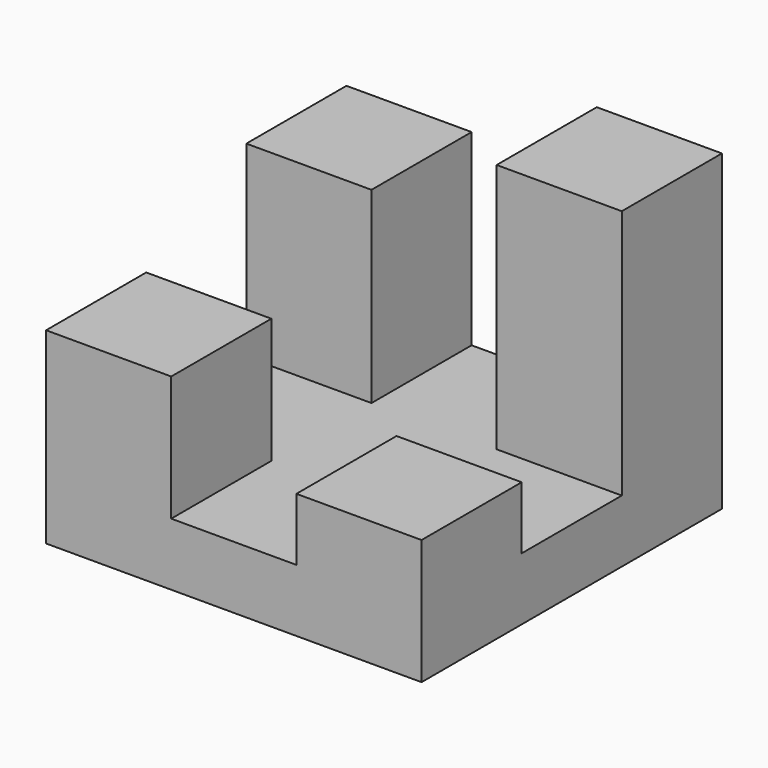
from build123d import *

# Parameters (mm, degrees)
F0_W     = 76.2
F0_H     = 76.2
F1_DEPTH = 12.7
F2_W     = 25.4
F2_H     = 25.4
F3_DEPTH = 38.1
F4_DEPTH = 25.4
F5_DEPTH = 12.7
F6_DEPTH = 50.8


with BuildPart() as f1:
    # F0 (on Top) → F1 (new body)
    with BuildSketch(Plane.XY):
        with Locations((-20.286223, 13.081634)):
            Rectangle(F0_W, F0_H)
    extrude(amount=F1_DEPTH)

    # F2 (on face) → F3 (join)
    with BuildSketch(Plane.XY.offset(12.7)):
        with Locations((-45.686223, 38.481634)):
            Rectangle(F2_W, F2_H)
    extrude(amount=F3_DEPTH)

    # F2 (on face) → F4 (join)
    with BuildSketch(Plane.XY.offset(12.7)):
        with Locations((-45.686223, -12.318366)):
            Rectangle(F2_W, F2_H)
    extrude(amount=F4_DEPTH)

    # F2 (on face) → F5 (join)
    with BuildSketch(Plane.XY.offset(12.7)):
        with Locations((5.113777, -12.318366)):
            Rectangle(F2_W, F2_H)
    extrude(amount=F5_DEPTH)

    # F2 (on face) → F6 (join)
    with BuildSketch(Plane.XY.offset(12.7)):
        with Locations((5.113777, 38.481634)):
            Rectangle(F2_W, F2_H)
    extrude(amount=F6_DEPTH)


solid = f1.part
